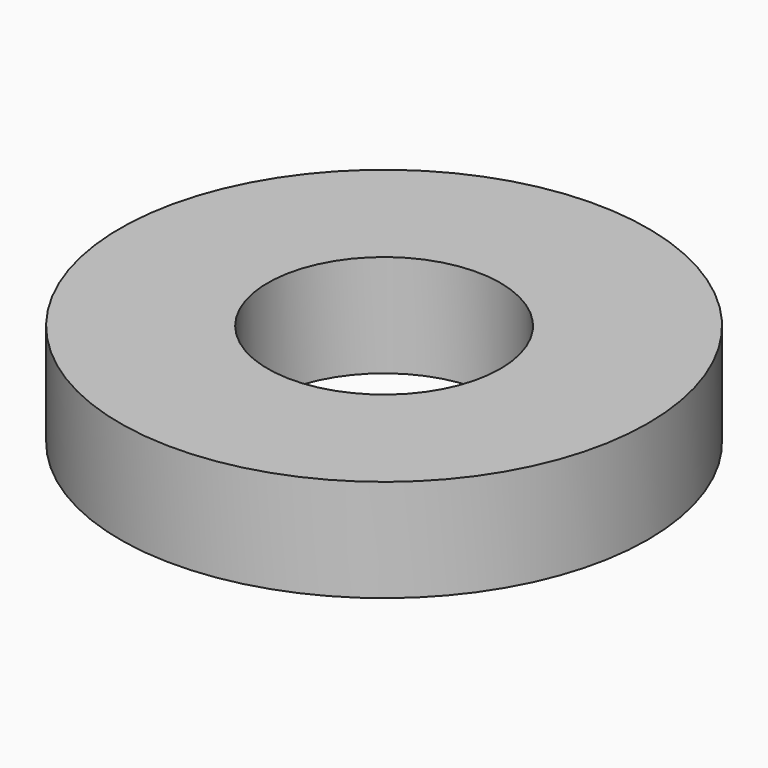
from build123d import *

# Parameters (mm, degrees)
F0_R           = 14.40883
F1_DEPTH       = 5.588
F3_D           = 11.43
F3_CBORE_D     = 12.7
F3_CBORE_DEPTH = 6.35


with BuildPart() as f1:
    # F0 (on Top) → F1 (new body)
    with BuildSketch(Plane.XY):
        with Locations((-41.533042, -27.053993)):
            Circle(F0_R)
    extrude(amount=F1_DEPTH)

    # F3 (through all)
    with Locations(Plane.XY.offset(5.588)):
        with Locations((-41.533042, -27.053993)):
            CounterBoreHole(F3_D / 2, F3_CBORE_D / 2, F3_CBORE_DEPTH)


solid = f1.part
